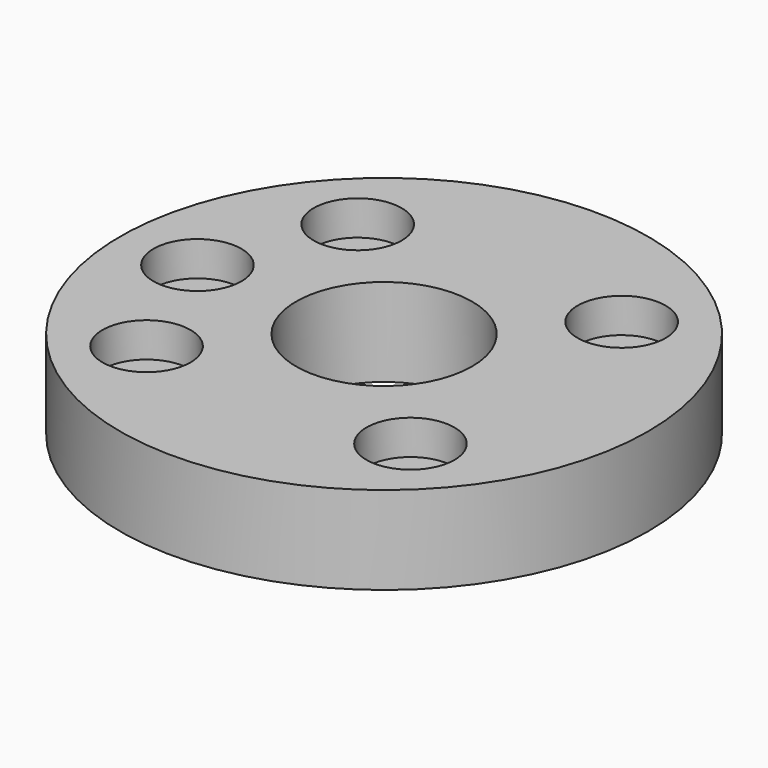
from build123d import *

# Parameters (mm, degrees)
SKETCH_R        = 38.1
PAD_DEPTH       = 12.7
SKETCH001_R     = 6.35
POCKET_DEPTH    = 5
SKETCH002_R     = 12.7
POCKET001_DEPTH = 12.701


with BuildPart() as part:
    # Sketch → Pad (new body)
    with BuildSketch(Plane.XY):
        Circle(SKETCH_R)
    extrude(amount=-PAD_DEPTH)

    # Sketch001 → Pocket (cut)
    with BuildSketch(Plane.XY):
        with Locations((-19.05, 19.05)):
            Circle(SKETCH001_R)
        with Locations((-19.05, -19.05)):
            Circle(SKETCH001_R)
        with Locations((19.05, -19.05)):
            Circle(SKETCH001_R)
        with Locations((19.05, 19.05)):
            Circle(SKETCH001_R)
        with Locations((-26.940768, 0)):
            Circle(SKETCH001_R)
    extrude(amount=-POCKET_DEPTH, mode=Mode.SUBTRACT)

    # Sketch002 → Pocket001 (cut, through all)
    with BuildSketch(Plane.XY):
        Circle(SKETCH002_R)
    extrude(amount=-POCKET001_DEPTH, mode=Mode.SUBTRACT)


solid = part.part
